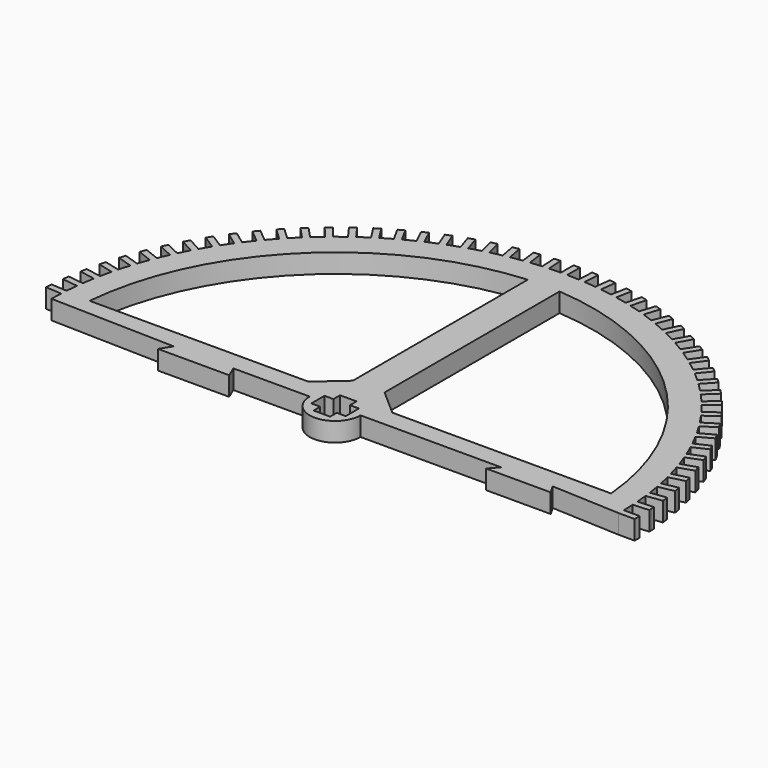
from build123d import *

# Parameters (mm, degrees)
F1_DEPTH = 3


with BuildPart() as f1:
    # F0 (on Top) → F1 (new body)
    with BuildSketch(Plane.XY):
        with BuildLine():
            Line((-15.9973, 0), (-4, 0))
            ThreePointArc((-4, 0), (0, -4), (4, 0))
            Line((4, 0), (26.098117, 0))
            Line((26.098117, 0), (24.885764, -1.40535))
            Line((24.885764, -1.40535), (35.025112, -1.40535))
            Line((35.025112, -1.40535), (34.223758, 0))
            Line((34.223758, 0), (44.997222, -0.5))
            ThreePointArc((44.997222, -0.5), (45, 0), (44.997222, 0.5))
            ThreePointArc((44.997222, 0.5), (44.977795, 1.413484), (44.939826, 2.326386))
            ThreePointArc((44.939826, 2.326386), (44.911203, 2.825573), (44.877035, 3.324412))
            ThreePointArc((44.877035, 3.324412), (44.800288, 4.234874), (44.705072, 5.14359))
            ThreePointArc((44.705072, 5.14359), (44.645162, 5.639996), (44.579739, 6.135705))
            ThreePointArc((44.579739, 6.135705), (44.445975, 7.039551), (44.293888, 7.940495))
            ThreePointArc((44.293888, 7.940495), (44.202926, 8.432159), (44.106507, 8.922782))
            ThreePointArc((44.106507, 8.922782), (43.916254, 9.816446), (43.707897, 10.706063))
            ThreePointArc((43.707897, 10.706063), (43.586242, 11.191045), (43.459207, 11.674646))
            ThreePointArc((43.459207, 11.674646), (43.213216, 12.5546), (42.94941, 13.429378))
            ThreePointArc((42.94941, 13.429378), (42.797543, 13.905765), (42.640393, 14.380435))
            ThreePointArc((42.640393, 14.380435), (42.339635, 15.243206), (42.021421, 16.099694))
            ThreePointArc((42.021421, 16.099694), (41.839942, 16.565605), (41.653297, 17.029471))
            ThreePointArc((41.653297, 17.029471), (41.298958, 17.871655), (40.927594, 18.706472))
            ThreePointArc((40.927594, 18.706472), (40.717217, 19.160068), (40.501814, 19.611299))
            ThreePointArc((40.501814, 19.611299), (40.095294, 20.429572), (39.672243, 21.239424))
            ThreePointArc((39.672243, 21.239424), (39.433801, 21.678915), (39.19049, 22.11573))
            ThreePointArc((39.19049, 22.11573), (38.733391, 22.906864), (38.260325, 23.688553))
            ThreePointArc((38.260325, 23.688553), (37.994757, 24.112206), (37.724498, 24.532881))
            ThreePointArc((37.724498, 24.532881), (37.218626, 25.293752), (36.69741, 26.044195))
            ThreePointArc((36.69741, 26.044195), (36.405765, 26.450336), (36.109625, 26.853212))
            ThreePointArc((36.109625, 26.853212), (35.556976, 27.580817), (34.989668, 28.297052))
            ThreePointArc((34.989668, 28.297052), (34.673096, 28.68408), (34.352244, 29.067565))
            ThreePointArc((34.352244, 29.067565), (33.754998, 29.759034), (33.143837, 30.438234))
            ThreePointArc((33.143837, 30.438234), (32.803588, 30.80462), (32.45929, 31.167203))
            ThreePointArc((32.45929, 31.167203), (31.819805, 31.819805), (31.167203, 32.45929))
            ThreePointArc((31.167203, 32.45929), (30.80462, 32.803588), (30.438234, 33.143837))
            ThreePointArc((30.438234, 33.143837), (29.759034, 33.754998), (29.067565, 34.352244))
            ThreePointArc((29.067565, 34.352244), (28.68408, 34.673096), (28.297052, 34.989668))
            ThreePointArc((28.297052, 34.989668), (27.580817, 35.556976), (26.853212, 36.109625))
            ThreePointArc((26.853212, 36.109625), (26.450336, 36.405765), (26.044195, 36.69741))
            ThreePointArc((26.044195, 36.69741), (25.293752, 37.218626), (24.532881, 37.724498))
            ThreePointArc((24.532881, 37.724498), (24.112206, 37.994757), (23.688553, 38.260325))
            ThreePointArc((23.688553, 38.260325), (22.906864, 38.733391), (22.11573, 39.19049))
            ThreePointArc((22.11573, 39.19049), (21.678915, 39.433801), (21.239424, 39.672243))
            ThreePointArc((21.239424, 39.672243), (20.429572, 40.095294), (19.611299, 40.501814))
            ThreePointArc((19.611299, 40.501814), (19.160068, 40.717217), (18.706472, 40.927594))
            ThreePointArc((18.706472, 40.927594), (17.871655, 41.298958), (17.029471, 41.653297))
            ThreePointArc((17.029471, 41.653297), (16.565605, 41.839942), (16.099694, 42.021421))
            ThreePointArc((16.099694, 42.021421), (15.243206, 42.339635), (14.380435, 42.640393))
            ThreePointArc((14.380435, 42.640393), (13.905765, 42.797543), (13.429378, 42.94941))
            ThreePointArc((13.429378, 42.94941), (12.5546, 43.213216), (11.674646, 43.459207))
            ThreePointArc((11.674646, 43.459207), (11.191045, 43.586242), (10.706063, 43.707897))
            ThreePointArc((10.706063, 43.707897), (9.816446, 43.916254), (8.922782, 44.106507))
            ThreePointArc((8.922782, 44.106507), (8.432159, 44.202926), (7.940495, 44.293888))
            ThreePointArc((7.940495, 44.293888), (7.039551, 44.445975), (6.135705, 44.579739))
            ThreePointArc((6.135705, 44.579739), (5.639996, 44.645162), (5.14359, 44.705072))
            ThreePointArc((5.14359, 44.705072), (4.234874, 44.800288), (3.324412, 44.877035))
            ThreePointArc((3.324412, 44.877035), (2.825573, 44.911203), (2.326386, 44.939826))
            ThreePointArc((2.326386, 44.939826), (1.413484, 44.977795), (0.5, 44.997222))
            ThreePointArc((0.5, 44.997222), (0, 45), (-0.5, 44.997222))
            ThreePointArc((-0.5, 44.997222), (-1.413484, 44.977795), (-2.326386, 44.939826))
            ThreePointArc((-2.326386, 44.939826), (-2.825573, 44.911203), (-3.324412, 44.877035))
            ThreePointArc((-3.324412, 44.877035), (-4.234874, 44.800288), (-5.14359, 44.705072))
            ThreePointArc((-5.14359, 44.705072), (-5.639996, 44.645162), (-6.135705, 44.579739))
            ThreePointArc((-6.135705, 44.579739), (-7.039551, 44.445975), (-7.940495, 44.293888))
            ThreePointArc((-7.940495, 44.293888), (-8.432159, 44.202926), (-8.922782, 44.106507))
            ThreePointArc((-8.922782, 44.106507), (-9.816446, 43.916254), (-10.706063, 43.707897))
            ThreePointArc((-10.706063, 43.707897), (-11.191045, 43.586242), (-11.674646, 43.459207))
            ThreePointArc((-11.674646, 43.459207), (-12.5546, 43.213216), (-13.429378, 42.94941))
            ThreePointArc((-13.429378, 42.94941), (-13.905765, 42.797543), (-14.380435, 42.640393))
            ThreePointArc((-14.380435, 42.640393), (-15.243206, 42.339635), (-16.099694, 42.021421))
            ThreePointArc((-16.099694, 42.021421), (-16.565605, 41.839942), (-17.029471, 41.653297))
            ThreePointArc((-17.029471, 41.653297), (-17.871655, 41.298958), (-18.706472, 40.927594))
            ThreePointArc((-18.706472, 40.927594), (-19.160068, 40.717217), (-19.611299, 40.501814))
            ThreePointArc((-19.611299, 40.501814), (-20.429572, 40.095294), (-21.239424, 39.672243))
            ThreePointArc((-21.239424, 39.672243), (-21.678915, 39.433801), (-22.11573, 39.19049))
            ThreePointArc((-22.11573, 39.19049), (-22.906864, 38.733391), (-23.688553, 38.260325))
            ThreePointArc((-23.688553, 38.260325), (-24.112206, 37.994757), (-24.532881, 37.724498))
            ThreePointArc((-24.532881, 37.724498), (-25.293752, 37.218626), (-26.044195, 36.69741))
            ThreePointArc((-26.044195, 36.69741), (-26.450336, 36.405765), (-26.853212, 36.109625))
            ThreePointArc((-26.853212, 36.109625), (-27.580817, 35.556976), (-28.297052, 34.989668))
            ThreePointArc((-28.297052, 34.989668), (-28.68408, 34.673096), (-29.067565, 34.352244))
            ThreePointArc((-29.067565, 34.352244), (-29.759034, 33.754998), (-30.438234, 33.143837))
            ThreePointArc((-30.438234, 33.143837), (-30.80462, 32.803588), (-31.167203, 32.45929))
            ThreePointArc((-31.167203, 32.45929), (-31.819805, 31.819805), (-32.45929, 31.167203))
            ThreePointArc((-32.45929, 31.167203), (-32.803588, 30.80462), (-33.143837, 30.438234))
            ThreePointArc((-33.143837, 30.438234), (-33.754998, 29.759034), (-34.352244, 29.067565))
            ThreePointArc((-34.352244, 29.067565), (-34.673096, 28.68408), (-34.989668, 28.297052))
            ThreePointArc((-34.989668, 28.297052), (-35.556976, 27.580817), (-36.109625, 26.853212))
            ThreePointArc((-36.109625, 26.853212), (-36.405765, 26.450336), (-36.69741, 26.044195))
            ThreePointArc((-36.69741, 26.044195), (-37.218626, 25.293752), (-37.724498, 24.532881))
            ThreePointArc((-37.724498, 24.532881), (-37.994757, 24.112206), (-38.260325, 23.688553))
            ThreePointArc((-38.260325, 23.688553), (-38.733391, 22.906864), (-39.19049, 22.11573))
            ThreePointArc((-39.19049, 22.11573), (-39.433801, 21.678915), (-39.672243, 21.239424))
            ThreePointArc((-39.672243, 21.239424), (-40.095294, 20.429572), (-40.501814, 19.611299))
            ThreePointArc((-40.501814, 19.611299), (-40.717217, 19.160068), (-40.927594, 18.706472))
            ThreePointArc((-40.927594, 18.706472), (-41.298958, 17.871655), (-41.653297, 17.029471))
            ThreePointArc((-41.653297, 17.029471), (-41.839942, 16.565605), (-42.021421, 16.099694))
            ThreePointArc((-42.021421, 16.099694), (-42.339635, 15.243206), (-42.640393, 14.380435))
            ThreePointArc((-42.640393, 14.380435), (-42.797543, 13.905765), (-42.94941, 13.429378))
            ThreePointArc((-42.94941, 13.429378), (-43.213216, 12.5546), (-43.459207, 11.674646))
            ThreePointArc((-43.459207, 11.674646), (-43.586242, 11.191045), (-43.707897, 10.706063))
            ThreePointArc((-43.707897, 10.706063), (-43.916254, 9.816446), (-44.106507, 8.922782))
            ThreePointArc((-44.106507, 8.922782), (-44.202926, 8.432159), (-44.293888, 7.940495))
            ThreePointArc((-44.293888, 7.940495), (-44.445975, 7.039551), (-44.579739, 6.135705))
            ThreePointArc((-44.579739, 6.135705), (-44.645162, 5.639996), (-44.705072, 5.14359))
            ThreePointArc((-44.705072, 5.14359), (-44.800288, 4.234874), (-44.877035, 3.324412))
            ThreePointArc((-44.877035, 3.324412), (-44.911203, 2.825573), (-44.939826, 2.326386))
            ThreePointArc((-44.939826, 2.326386), (-44.977795, 1.413484), (-44.997222, 0.5))
            Line((-44.997222, 0.5), (-25.372492, 0))
            Line((-25.372492, 0), (-26.466612, -1.740639))
            Line((-26.466612, -1.740639), (-15.265819, -1.740639))
            Line((-15.265819, -1.740639), (-15.9973, 0))
        make_face()
        Polygon((-1.3, 2.6), (0, 2.6), (1.3, 2.6), (1.3, 1.3), (2.704427, 1.3), (2.704427, 0), (2.704427, -1.3), (1.3, -1.3), (1.3, -2.6), (0, -2.6), (-1.3, -2.6), (-1.3, -1.3), (-2.704427, -1.3), (-2.704427, 0), (-2.704427, 1.3), (-1.3, 1.3), align=None, mode=Mode.SUBTRACT)
        with BuildLine():
            Line((-2.5, 6.6), (-6.6, 3))
            Line((-6.6, 3), (-40.997222, 3))
            ThreePointArc((-40.997222, 3), (-28.724019, 29.06668), (-2.5, 41))
            Line((-2.5, 41), (-2.5, 6.6))
        make_face(mode=Mode.SUBTRACT)
        with BuildLine():
            Line((6.6, 3), (2.5, 6.6))
            Line((2.5, 6.6), (2.5, 41))
            ThreePointArc((2.5, 41), (28.724019, 29.06668), (40.997222, 3))
            Line((40.997222, 3), (6.6, 3))
        make_face(mode=Mode.SUBTRACT)
        with BuildLine():
            ThreePointArc((44.997222, 0.5), (45, 0), (44.997222, -0.5))
            Line((44.997222, -0.5), (47.5, -0.5))
            Line((47.5, -0.5), (47.5, 0))
            Line((47.5, 0), (47.5, 0.5))
            Line((47.5, 0.5), (44.997222, 0.5))
        make_face()
        with BuildLine():
            Line((-47.437665, 2.483536), (-44.939826, 2.326386))
            ThreePointArc((-44.939826, 2.326386), (-44.911203, 2.825573), (-44.877035, 3.324412))
            Line((-44.877035, 3.324412), (-47.374874, 3.481563))
            Line((-47.374874, 3.481563), (-47.40627, 2.98255))
            Line((-47.40627, 2.98255), (-47.437665, 2.483536))
        make_face()
        with BuildLine():
            ThreePointArc((44.877035, 3.324412), (44.911203, 2.825573), (44.939826, 2.326386))
            Line((44.939826, 2.326386), (47.437665, 2.483536))
            Line((47.437665, 2.483536), (47.40627, 2.98255))
            Line((47.40627, 2.98255), (47.374874, 3.481563))
            Line((47.374874, 3.481563), (44.877035, 3.324412))
        make_face()
        with BuildLine():
            Line((-47.188115, 5.457271), (-44.705072, 5.14359))
            ThreePointArc((-44.705072, 5.14359), (-44.645162, 5.639996), (-44.579739, 6.135705))
            Line((-44.579739, 6.135705), (-47.062782, 6.449386))
            Line((-47.062782, 6.449386), (-47.125448, 5.953329))
            Line((-47.125448, 5.953329), (-47.188115, 5.457271))
        make_face()
        with BuildLine():
            ThreePointArc((44.579739, 6.135705), (44.645162, 5.639996), (44.705072, 5.14359))
            Line((44.705072, 5.14359), (47.188115, 5.457271))
            Line((47.188115, 5.457271), (47.125448, 5.953329))
            Line((47.125448, 5.953329), (47.062782, 6.449386))
            Line((47.062782, 6.449386), (44.579739, 6.135705))
        make_face()
        with BuildLine():
            Line((-46.752335, 8.409469), (-44.293888, 7.940495))
            ThreePointArc((-44.293888, 7.940495), (-44.202926, 8.432159), (-44.106507, 8.922782))
            Line((-44.106507, 8.922782), (-46.564954, 9.391756))
            Line((-46.564954, 9.391756), (-46.658644, 8.900612))
            Line((-46.658644, 8.900612), (-46.752335, 8.409469))
        make_face()
        with BuildLine():
            ThreePointArc((44.106507, 8.922782), (44.202926, 8.432159), (44.293888, 7.940495))
            Line((44.293888, 7.940495), (46.752335, 8.409469))
            Line((46.752335, 8.409469), (46.658644, 8.900612))
            Line((46.658644, 8.900612), (46.564954, 9.391756))
            Line((46.564954, 9.391756), (44.106507, 8.922782))
        make_face()
        with BuildLine():
            Line((-46.132045, 11.328478), (-43.707897, 10.706063))
            ThreePointArc((-43.707897, 10.706063), (-43.586242, 11.191045), (-43.459207, 11.674646))
            Line((-43.459207, 11.674646), (-45.883355, 12.297061))
            Line((-45.883355, 12.297061), (-46.0077, 11.81277))
            Line((-46.0077, 11.81277), (-46.132045, 11.328478))
        make_face()
        with BuildLine():
            ThreePointArc((43.459207, 11.674646), (43.586242, 11.191045), (43.707897, 10.706063))
            Line((43.707897, 10.706063), (46.132045, 11.328478))
            Line((46.132045, 11.328478), (46.0077, 11.81277))
            Line((46.0077, 11.81277), (45.883355, 12.297061))
            Line((45.883355, 12.297061), (43.459207, 11.674646))
        make_face()
        with BuildLine():
            Line((-45.329693, 14.202779), (-42.94941, 13.429378))
            ThreePointArc((-42.94941, 13.429378), (-42.797543, 13.905765), (-42.640393, 14.380435))
            Line((-42.640393, 14.380435), (-45.020676, 15.153835))
            Line((-45.020676, 15.153835), (-45.175185, 14.678307))
            Line((-45.175185, 14.678307), (-45.329693, 14.202779))
        make_face()
        with BuildLine():
            ThreePointArc((42.640393, 14.380435), (42.797543, 13.905765), (42.94941, 13.429378))
            Line((42.94941, 13.429378), (45.329693, 14.202779))
            Line((45.329693, 14.202779), (45.175185, 14.678307))
            Line((45.175185, 14.678307), (45.020676, 15.153835))
            Line((45.020676, 15.153835), (42.640393, 14.380435))
        make_face()
        with BuildLine():
            Line((-44.348445, 17.021028), (-42.021421, 16.099694))
            ThreePointArc((-42.021421, 16.099694), (-41.839942, 16.565605), (-41.653297, 17.029471))
            Line((-41.653297, 17.029471), (-43.980321, 17.950804))
            Line((-43.980321, 17.950804), (-44.164383, 17.485916))
            Line((-44.164383, 17.485916), (-44.348445, 17.021028))
        make_face()
        with BuildLine():
            ThreePointArc((41.653297, 17.029471), (41.839942, 16.565605), (42.021421, 16.099694))
            Line((42.021421, 16.099694), (44.348445, 17.021028))
            Line((44.348445, 17.021028), (44.164383, 17.485916))
            Line((44.164383, 17.485916), (43.980321, 17.950804))
            Line((43.980321, 17.950804), (41.653297, 17.029471))
        make_face()
        with BuildLine():
            Line((-43.192175, 19.772103), (-40.927594, 18.706472))
            ThreePointArc((-40.927594, 18.706472), (-40.717217, 19.160068), (-40.501814, 19.611299))
            Line((-40.501814, 19.611299), (-42.766395, 20.67693))
            Line((-42.766395, 20.67693), (-42.979285, 20.224516))
            Line((-42.979285, 20.224516), (-43.192175, 19.772103))
        make_face()
        with BuildLine():
            ThreePointArc((40.501814, 19.611299), (40.717217, 19.160068), (40.927594, 18.706472))
            Line((40.927594, 18.706472), (43.192175, 19.772103))
            Line((43.192175, 19.772103), (42.979285, 20.224516))
            Line((42.979285, 20.224516), (42.766395, 20.67693))
            Line((42.766395, 20.67693), (40.501814, 19.611299))
        make_face()
        with BuildLine():
            Line((-41.865444, 22.445146), (-39.672243, 21.239424))
            ThreePointArc((-39.672243, 21.239424), (-39.433801, 21.678915), (-39.19049, 22.11573))
            Line((-39.19049, 22.11573), (-41.38369, 23.321453))
            Line((-41.38369, 23.321453), (-41.624567, 22.8833))
            Line((-41.624567, 22.8833), (-41.865444, 22.445146))
        make_face()
        with BuildLine():
            ThreePointArc((39.19049, 22.11573), (39.433801, 21.678915), (39.672243, 21.239424))
            Line((39.672243, 21.239424), (41.865444, 22.445146))
            Line((41.865444, 22.445146), (41.624567, 22.8833))
            Line((41.624567, 22.8833), (41.38369, 23.321453))
            Line((41.38369, 23.321453), (39.19049, 22.11573))
        make_face()
        with BuildLine():
            Line((-40.37349, 25.029609), (-38.260325, 23.688553))
            ThreePointArc((-38.260325, 23.688553), (-37.994757, 24.112206), (-37.724498, 24.532881))
            Line((-37.724498, 24.532881), (-39.837663, 25.873937))
            Line((-39.837663, 25.873937), (-40.105576, 25.451773))
            Line((-40.105576, 25.451773), (-40.37349, 25.029609))
        make_face()
        with BuildLine():
            ThreePointArc((37.724498, 24.532881), (37.994757, 24.112206), (38.260325, 23.688553))
            Line((38.260325, 23.688553), (40.37349, 25.029609))
            Line((40.37349, 25.029609), (40.105576, 25.451773))
            Line((40.105576, 25.451773), (39.837663, 25.873937))
            Line((39.837663, 25.873937), (37.724498, 24.532881))
        make_face()
        with BuildLine():
            Line((-38.7222, 27.515291), (-36.69741, 26.044195))
            ThreePointArc((-36.69741, 26.044195), (-36.405765, 26.450336), (-36.109625, 26.853212))
            Line((-36.109625, 26.853212), (-38.134415, 28.324308))
            Line((-38.134415, 28.324308), (-38.428307, 27.919799))
            Line((-38.428307, 27.919799), (-38.7222, 27.515291))
        make_face()
        with BuildLine():
            ThreePointArc((36.109625, 26.853212), (36.405765, 26.450336), (36.69741, 26.044195))
            Line((36.69741, 26.044195), (38.7222, 27.515291))
            Line((38.7222, 27.515291), (38.428307, 27.919799))
            Line((38.428307, 27.919799), (38.134415, 28.324308))
            Line((38.134415, 28.324308), (36.109625, 26.853212))
        make_face()
        with BuildLine():
            Line((-36.918091, 29.892383), (-34.989668, 28.297052))
            ThreePointArc((-34.989668, 28.297052), (-34.673096, 28.68408), (-34.352244, 29.067565))
            Line((-34.352244, 29.067565), (-36.280667, 30.662896))
            Line((-36.280667, 30.662896), (-36.599379, 30.27764))
            Line((-36.599379, 30.27764), (-36.918091, 29.892383))
        make_face()
        with BuildLine():
            ThreePointArc((34.352244, 29.067565), (34.673096, 28.68408), (34.989668, 28.297052))
            Line((34.989668, 28.297052), (36.918091, 29.892383))
            Line((36.918091, 29.892383), (36.599379, 30.27764))
            Line((36.599379, 30.27764), (36.280667, 30.662896))
            Line((36.280667, 30.662896), (34.352244, 29.067565))
        make_face()
        with BuildLine():
            Line((-34.968283, 32.151503), (-33.143837, 30.438234))
            ThreePointArc((-33.143837, 30.438234), (-32.803588, 30.80462), (-32.45929, 31.167203))
            Line((-32.45929, 31.167203), (-34.283736, 32.880472))
            Line((-34.283736, 32.880472), (-34.62601, 32.515988))
            Line((-34.62601, 32.515988), (-34.968283, 32.151503))
        make_face()
        with BuildLine():
            ThreePointArc((32.45929, 31.167203), (32.803588, 30.80462), (33.143837, 30.438234))
            Line((33.143837, 30.438234), (34.968283, 32.151503))
            Line((34.968283, 32.151503), (34.62601, 32.515988))
            Line((34.62601, 32.515988), (34.283736, 32.880472))
            Line((34.283736, 32.880472), (32.45929, 31.167203))
        make_face()
        with BuildLine():
            Line((-32.880472, 34.283736), (-31.167203, 32.45929))
            ThreePointArc((-31.167203, 32.45929), (-30.80462, 32.803588), (-30.438234, 33.143837))
            Line((-30.438234, 33.143837), (-32.151503, 34.968283))
            Line((-32.151503, 34.968283), (-32.515988, 34.62601))
            Line((-32.515988, 34.62601), (-32.880472, 34.283736))
        make_face()
        with BuildLine():
            ThreePointArc((30.438234, 33.143837), (30.80462, 32.803588), (31.167203, 32.45929))
            Line((31.167203, 32.45929), (32.880472, 34.283736))
            Line((32.880472, 34.283736), (32.515988, 34.62601))
            Line((32.515988, 34.62601), (32.151503, 34.968283))
            Line((32.151503, 34.968283), (30.438234, 33.143837))
        make_face()
        with BuildLine():
            Line((-30.662896, 36.280667), (-29.067565, 34.352244))
            ThreePointArc((-29.067565, 34.352244), (-28.68408, 34.673096), (-28.297052, 34.989668))
            Line((-28.297052, 34.989668), (-29.892383, 36.918091))
            Line((-29.892383, 36.918091), (-30.27764, 36.599379))
            Line((-30.27764, 36.599379), (-30.662896, 36.280667))
        make_face()
        with BuildLine():
            ThreePointArc((28.297052, 34.989668), (28.68408, 34.673096), (29.067565, 34.352244))
            Line((29.067565, 34.352244), (30.662896, 36.280667))
            Line((30.662896, 36.280667), (30.27764, 36.599379))
            Line((30.27764, 36.599379), (29.892383, 36.918091))
            Line((29.892383, 36.918091), (28.297052, 34.989668))
        make_face()
        with BuildLine():
            Line((-28.324308, 38.134415), (-26.853212, 36.109625))
            ThreePointArc((-26.853212, 36.109625), (-26.450336, 36.405765), (-26.044195, 36.69741))
            Line((-26.044195, 36.69741), (-27.515291, 38.7222))
            Line((-27.515291, 38.7222), (-27.919799, 38.428307))
            Line((-27.919799, 38.428307), (-28.324308, 38.134415))
        make_face()
        with BuildLine():
            ThreePointArc((26.044195, 36.69741), (26.450336, 36.405765), (26.853212, 36.109625))
            Line((26.853212, 36.109625), (28.324308, 38.134415))
            Line((28.324308, 38.134415), (27.919799, 38.428307))
            Line((27.919799, 38.428307), (27.515291, 38.7222))
            Line((27.515291, 38.7222), (26.044195, 36.69741))
        make_face()
        with BuildLine():
            Line((-25.873937, 39.837663), (-24.532881, 37.724498))
            ThreePointArc((-24.532881, 37.724498), (-24.112206, 37.994757), (-23.688553, 38.260325))
            Line((-23.688553, 38.260325), (-25.029609, 40.37349))
            Line((-25.029609, 40.37349), (-25.451773, 40.105576))
            Line((-25.451773, 40.105576), (-25.873937, 39.837663))
        make_face()
        with BuildLine():
            ThreePointArc((23.688553, 38.260325), (24.112206, 37.994757), (24.532881, 37.724498))
            Line((24.532881, 37.724498), (25.873937, 39.837663))
            Line((25.873937, 39.837663), (25.451773, 40.105576))
            Line((25.451773, 40.105576), (25.029609, 40.37349))
            Line((25.029609, 40.37349), (23.688553, 38.260325))
        make_face()
        with BuildLine():
            Line((-23.321453, 41.38369), (-22.11573, 39.19049))
            ThreePointArc((-22.11573, 39.19049), (-21.678915, 39.433801), (-21.239424, 39.672243))
            Line((-21.239424, 39.672243), (-22.445146, 41.865444))
            Line((-22.445146, 41.865444), (-22.8833, 41.624567))
            Line((-22.8833, 41.624567), (-23.321453, 41.38369))
        make_face()
        with BuildLine():
            ThreePointArc((21.239424, 39.672243), (21.678915, 39.433801), (22.11573, 39.19049))
            Line((22.11573, 39.19049), (23.321453, 41.38369))
            Line((23.321453, 41.38369), (22.8833, 41.624567))
            Line((22.8833, 41.624567), (22.445146, 41.865444))
            Line((22.445146, 41.865444), (21.239424, 39.672243))
        make_face()
        with BuildLine():
            Line((-20.67693, 42.766395), (-19.611299, 40.501814))
            ThreePointArc((-19.611299, 40.501814), (-19.160068, 40.717217), (-18.706472, 40.927594))
            Line((-18.706472, 40.927594), (-19.772103, 43.192175))
            Line((-19.772103, 43.192175), (-20.224516, 42.979285))
            Line((-20.224516, 42.979285), (-20.67693, 42.766395))
        make_face()
        with BuildLine():
            ThreePointArc((18.706472, 40.927594), (19.160068, 40.717217), (19.611299, 40.501814))
            Line((19.611299, 40.501814), (20.67693, 42.766395))
            Line((20.67693, 42.766395), (20.224516, 42.979285))
            Line((20.224516, 42.979285), (19.772103, 43.192175))
            Line((19.772103, 43.192175), (18.706472, 40.927594))
        make_face()
        with BuildLine():
            Line((-17.950804, 43.980321), (-17.029471, 41.653297))
            ThreePointArc((-17.029471, 41.653297), (-16.565605, 41.839942), (-16.099694, 42.021421))
            Line((-16.099694, 42.021421), (-17.021028, 44.348445))
            Line((-17.021028, 44.348445), (-17.485916, 44.164383))
            Line((-17.485916, 44.164383), (-17.950804, 43.980321))
        make_face()
        with BuildLine():
            ThreePointArc((16.099694, 42.021421), (16.565605, 41.839942), (17.029471, 41.653297))
            Line((17.029471, 41.653297), (17.950804, 43.980321))
            Line((17.950804, 43.980321), (17.485916, 44.164383))
            Line((17.485916, 44.164383), (17.021028, 44.348445))
            Line((17.021028, 44.348445), (16.099694, 42.021421))
        make_face()
        with BuildLine():
            Line((-15.153835, 45.020676), (-14.380435, 42.640393))
            ThreePointArc((-14.380435, 42.640393), (-13.905765, 42.797543), (-13.429378, 42.94941))
            Line((-13.429378, 42.94941), (-14.202779, 45.329693))
            Line((-14.202779, 45.329693), (-14.678307, 45.175185))
            Line((-14.678307, 45.175185), (-15.153835, 45.020676))
        make_face()
        with BuildLine():
            ThreePointArc((13.429378, 42.94941), (13.905765, 42.797543), (14.380435, 42.640393))
            Line((14.380435, 42.640393), (15.153835, 45.020676))
            Line((15.153835, 45.020676), (14.678307, 45.175185))
            Line((14.678307, 45.175185), (14.202779, 45.329693))
            Line((14.202779, 45.329693), (13.429378, 42.94941))
        make_face()
        with BuildLine():
            Line((-12.297061, 45.883355), (-11.674646, 43.459207))
            ThreePointArc((-11.674646, 43.459207), (-11.191045, 43.586242), (-10.706063, 43.707897))
            Line((-10.706063, 43.707897), (-11.328478, 46.132045))
            Line((-11.328478, 46.132045), (-11.81277, 46.0077))
            Line((-11.81277, 46.0077), (-12.297061, 45.883355))
        make_face()
        with BuildLine():
            ThreePointArc((10.706063, 43.707897), (11.191045, 43.586242), (11.674646, 43.459207))
            Line((11.674646, 43.459207), (12.297061, 45.883355))
            Line((12.297061, 45.883355), (11.81277, 46.0077))
            Line((11.81277, 46.0077), (11.328478, 46.132045))
            Line((11.328478, 46.132045), (10.706063, 43.707897))
        make_face()
        with BuildLine():
            Line((-9.391756, 46.564954), (-8.922782, 44.106507))
            ThreePointArc((-8.922782, 44.106507), (-8.432159, 44.202926), (-7.940495, 44.293888))
            Line((-7.940495, 44.293888), (-8.409469, 46.752335))
            Line((-8.409469, 46.752335), (-8.900612, 46.658644))
            Line((-8.900612, 46.658644), (-9.391756, 46.564954))
        make_face()
        with BuildLine():
            ThreePointArc((7.940495, 44.293888), (8.432159, 44.202926), (8.922782, 44.106507))
            Line((8.922782, 44.106507), (9.391756, 46.564954))
            Line((9.391756, 46.564954), (8.900612, 46.658644))
            Line((8.900612, 46.658644), (8.409469, 46.752335))
            Line((8.409469, 46.752335), (7.940495, 44.293888))
        make_face()
        with BuildLine():
            Line((-6.449386, 47.062782), (-6.135705, 44.579739))
            ThreePointArc((-6.135705, 44.579739), (-5.639996, 44.645162), (-5.14359, 44.705072))
            Line((-5.14359, 44.705072), (-5.457271, 47.188115))
            Line((-5.457271, 47.188115), (-5.953329, 47.125448))
            Line((-5.953329, 47.125448), (-6.449386, 47.062782))
        make_face()
        with BuildLine():
            ThreePointArc((5.14359, 44.705072), (5.639996, 44.645162), (6.135705, 44.579739))
            Line((6.135705, 44.579739), (6.449386, 47.062782))
            Line((6.449386, 47.062782), (5.953329, 47.125448))
            Line((5.953329, 47.125448), (5.457271, 47.188115))
            Line((5.457271, 47.188115), (5.14359, 44.705072))
        make_face()
        with BuildLine():
            Line((-3.481563, 47.374874), (-3.324412, 44.877035))
            ThreePointArc((-3.324412, 44.877035), (-2.825573, 44.911203), (-2.326386, 44.939826))
            Line((-2.326386, 44.939826), (-2.483536, 47.437665))
            Line((-2.483536, 47.437665), (-2.98255, 47.40627))
            Line((-2.98255, 47.40627), (-3.481563, 47.374874))
        make_face()
        with BuildLine():
            ThreePointArc((2.326386, 44.939826), (2.825573, 44.911203), (3.324412, 44.877035))
            Line((3.324412, 44.877035), (3.481563, 47.374874))
            Line((3.481563, 47.374874), (2.98255, 47.40627))
            Line((2.98255, 47.40627), (2.483536, 47.437665))
            Line((2.483536, 47.437665), (2.326386, 44.939826))
        make_face()
        with BuildLine():
            Line((-0.5, 47.5), (-0.5, 44.997222))
            ThreePointArc((-0.5, 44.997222), (0, 45), (0.5, 44.997222))
            Line((0.5, 44.997222), (0.5, 47.5))
            Line((0.5, 47.5), (0, 47.5))
            Line((0, 47.5), (-0.5, 47.5))
        make_face()
    extrude(amount=F1_DEPTH)


solid = f1.part
